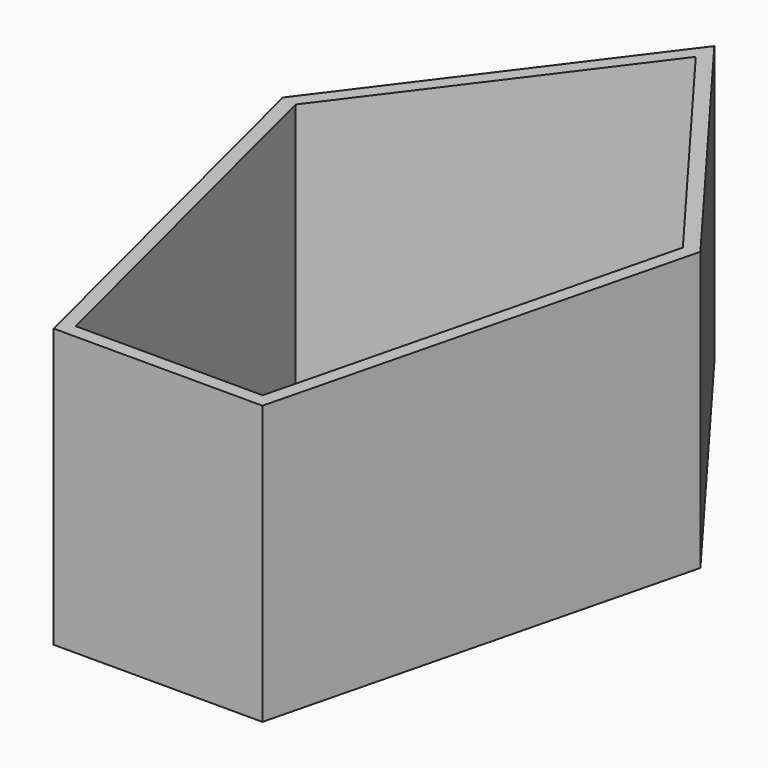
from build123d import *

# Parameters (mm, degrees)
F1_DEPTH = 50.8
F2_T     = -2.54
F3_R     = 3.81
F4_DEPTH = 25.4


with BuildPart() as f1:
    # F0 (on Top) → F1 (new body)
    with BuildSketch(Plane.XY):
        Polygon((0, -55.765115), (0, 20.321534), (-38.1, 20.321534), (-19.05, -55.765115), align=None)
        Polygon((38.1, 20.321534), (0, 20.321534), (0, -55.765115), (19.05, -55.765115), align=None)
        Polygon((38.1, 20.321534), (0, 71.121534), (0, 20.321534), align=None)
        Polygon((0, 20.321534), (0, 71.121534), (-38.1, 20.321534), align=None)
    extrude(amount=F1_DEPTH)

    # F2
    f2_openings = [f1.faces().sort_by_distance(p)[0] for p in [
        (0, 2.136611, 50.8),
    ]]
    offset(amount=F2_T, openings=f2_openings)

    # F3 (on face) → F4 (cut)
    with BuildSketch(Plane.XY.offset(2.54)):
        with Locations((4.445, 28.7882)):
            Circle(F3_R)
        with Locations((-4.445, 28.7882)):
            Circle(F3_R)
    extrude(amount=-F4_DEPTH, mode=Mode.SUBTRACT)


solid = f1.part
